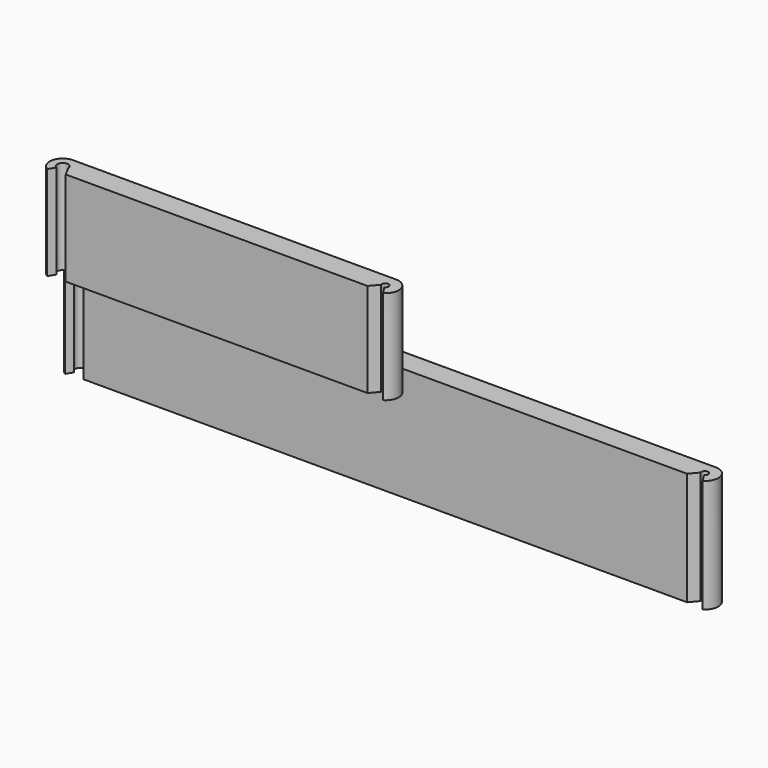
from build123d import *

# Parameters (mm, degrees)
F1_DEPTH = 30
F3_DEPTH = 25


with BuildPart() as f1:
    # F0 (on Top) → F1 (new body)
    with BuildSketch(Plane.XY):
        with BuildLine():
            ThreePointArc((-40.672448, -1.284646), (-40.750817, 1.240474), (-38.55, 0))
            Line((-38.55, 0), (-37.190883, -2.516997))
            Line((-37.190883, -2.516997), (42.809117, -2.516997))
            Line((42.809117, -2.516997), (42.809117, 3.45))
            Line((42.809117, 3.45), (-40, 3.45))
            ThreePointArc((-40, 3.45), (-43.333073, 0.890577), (-41.720787, -2.990216))
            Line((-41.720787, -2.990216), (-40.672448, -1.284646))
        make_face()
        with BuildLine():
            Line((42.809117, 3.45), (42.809117, -2.516997))
            Line((42.809117, -2.516997), (122.809117, -2.516997))
            Line((122.809117, -2.516997), (124.678304, -0.323294))
            ThreePointArc((124.678304, -0.323294), (125.848812, 0.837089), (125.910627, -0.809955))
            Line((125.910627, -0.809955), (127.33902, -2.990216))
            ThreePointArc((127.33902, -2.990216), (128.951306, 0.890577), (125.618234, 3.45))
            Line((125.618234, 3.45), (42.809117, 3.45))
        make_face()
    extrude(amount=F1_DEPTH)


with BuildPart() as f3:
    # F2 (on face) → F3 (new body)
    with BuildSketch(Plane.XY.offset(30)):
        with BuildLine():
            ThreePointArc((53.072564, -16.076712), (54.684849, -12.195919), (51.351777, -9.636496))
            Line((51.351777, -9.636496), (8.54266, -9.636496))
            Line((8.54266, -9.636496), (-34.266457, -9.636496))
            ThreePointArc((-34.266457, -9.636496), (-37.599529, -12.195919), (-35.987244, -16.076712))
            Line((-35.987244, -16.076712), (-34.938904, -14.371141))
            ThreePointArc((-34.938904, -14.371141), (-35.017273, -11.846022), (-32.816457, -13.086496))
            Line((-32.816457, -13.086496), (-31.45734, -15.603493))
            Line((-31.45734, -15.603493), (8.54266, -15.603493))
            Line((8.54266, -15.603493), (48.54266, -15.603493))
            Line((48.54266, -15.603493), (50.411848, -13.40979))
            ThreePointArc((50.411848, -13.40979), (51.582355, -12.249407), (51.64417, -13.896451))
            Line((51.64417, -13.896451), (53.072564, -16.076712))
        make_face()
    extrude(amount=F3_DEPTH)


solid = Compound([f1.part, f3.part])
